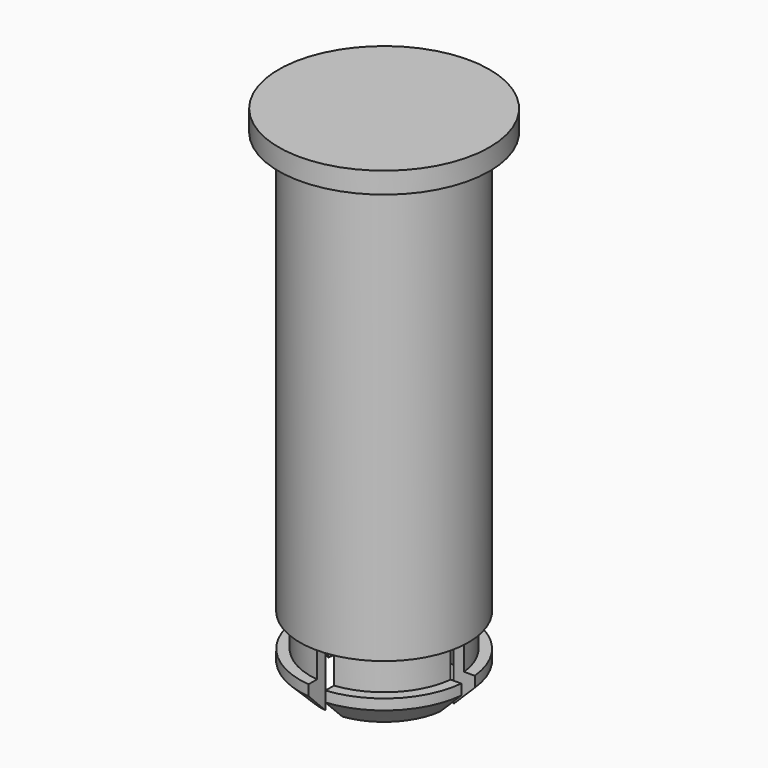
from build123d import *

# Parameters (mm, degrees)
F0_R      = 20
F1_DEPTH  = 7.5
F2_R      = 17.5
F3_DEPTH  = 7.8
F4_R      = 20
F5_DEPTH  = 100
F6_R      = 25
F7_DEPTH  = 5
F8_SIZE   = 5
F9_R      = 15
F10_DEPTH = 115.3
F11_W     = 4
F11_H     = 15.3
F12_DEPTH = 25
F13_W     = 4
F13_H     = 15.3
F14_DEPTH = 25


with BuildPart() as f1:
    # F0 (on Top) → F1 (new body)
    with BuildSketch(Plane.XY):
        Circle(F0_R)
    extrude(amount=F1_DEPTH)

    # F2 (on face) → F3 (join)
    with BuildSketch(Plane.XY.offset(7.5)):
        Circle(F2_R)
    extrude(amount=F3_DEPTH)

    # F4 (on face) → F5 (join)
    with BuildSketch(Plane.XY.offset(15.3)):
        Circle(F4_R)
    extrude(amount=F5_DEPTH)

    # F6 (on face) → F7 (join)
    with BuildSketch(Plane.XY.offset(115.3)):
        Circle(F6_R)
    extrude(amount=F7_DEPTH)

    # F8
    f8_edges = [f1.edges().sort_by_distance(p)[0] for p in [
        (-20, 0, 0),
    ]]
    chamfer(f8_edges, length=F8_SIZE)

    # F9 (on face) → F10 (cut, through all)
    with BuildSketch(Plane(origin=(0, 0, 0), x_dir=(1, 0, 0), z_dir=(0, 0, -1))):
        Circle(F9_R)
    extrude(amount=-F10_DEPTH, mode=Mode.SUBTRACT)

    # F11 (on Front) → F12 (cut, symmetric)
    with BuildSketch(Plane.XZ):
        with Locations((0, 7.65)):
            Rectangle(F11_W, F11_H)
    extrude(amount=F12_DEPTH, both=True, mode=Mode.SUBTRACT)

    # F13 (on Right) → F14 (cut, symmetric)
    with BuildSketch(Plane.YZ):
        with Locations((0, 7.65)):
            Rectangle(F13_W, F13_H)
    extrude(amount=F14_DEPTH, both=True, mode=Mode.SUBTRACT)


solid = f1.part
